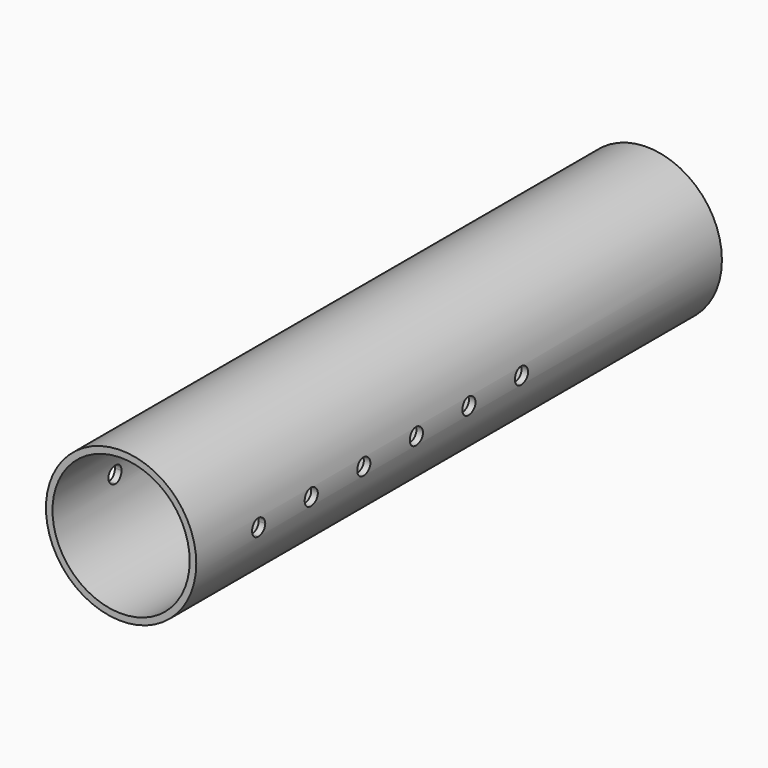
from build123d import *

# Parameters (mm, degrees)
F0_R     = 58.112152
F0_R_2   = 53.032152
F1_DEPTH = 254
F2_R     = 6.35
F3_DEPTH = 381


with BuildPart() as f1:
    # F0 (on Front) → F1 (new body, symmetric)
    with BuildSketch(Plane.XZ):
        Circle(F0_R)
        Circle(F0_R_2, mode=Mode.SUBTRACT)
    extrude(amount=F1_DEPTH, both=True)

    # F2 (on Right) → F3 (cut, symmetric)
    with BuildSketch(Plane.YZ):
        with Locations((-142.875, 0)):
            Circle(F2_R)
        with Locations((-41.275, 0)):
            Circle(F2_R)
        with Locations((-92.075, 0)):
            Circle(F2_R)
        with Locations((9.525, 0)):
            Circle(F2_R)
        with Locations((60.325, 0)):
            Circle(F2_R)
        with BuildLine():
            Line((-193.675, -6.35), (-193.675, 6.35))
            ThreePointArc((-193.675, 6.35), (-200.025, 0), (-193.675, -6.35))
        make_face()
        with BuildLine():
            ThreePointArc((-187.325, 0), (-189.1848719395, 4.4901280605), (-193.675, 6.35))
            Line((-193.675, 6.35), (-193.675, -6.35))
            ThreePointArc((-193.675, -6.35), (-189.1848719395, -4.4901280605), (-187.325, 0))
        make_face()
    extrude(amount=F3_DEPTH, both=True, mode=Mode.SUBTRACT)


solid = f1.part
